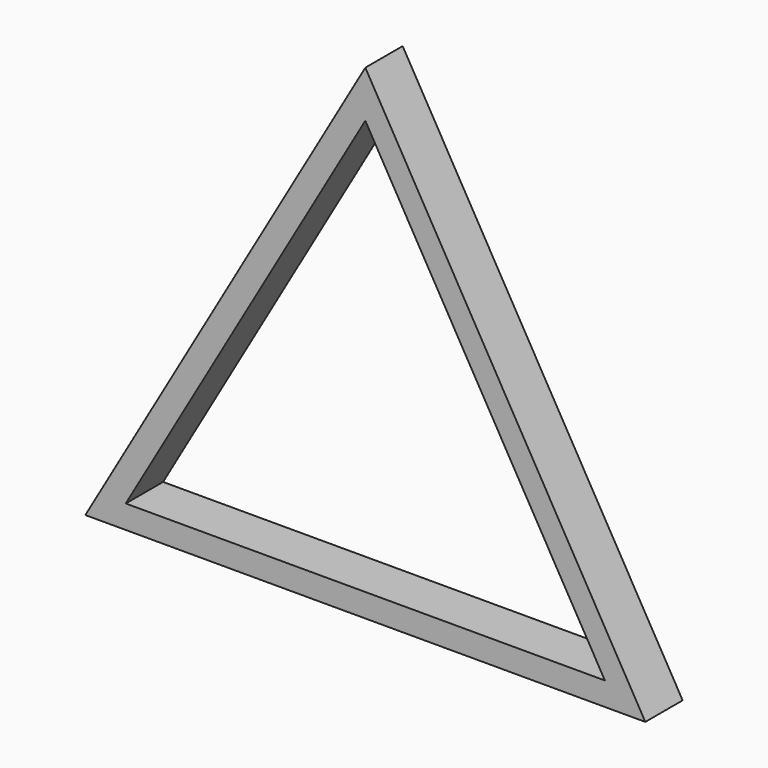
from build123d import *

# Parameters (mm, degrees)
F1_DEPTH = 6.35


with BuildPart() as f1:
    # F0 (on Front) → F1 (new body)
    with BuildSketch(Plane.XZ):
        Polygon((11.813241, 65.991136), (-26.286759, 0), (49.913241, 0), align=None)
        Polygon((44.41398, 3.175), (-20.787498, 3.175), (11.813241, 59.641136), align=None, mode=Mode.SUBTRACT)
    extrude(amount=F1_DEPTH)


solid = f1.part
